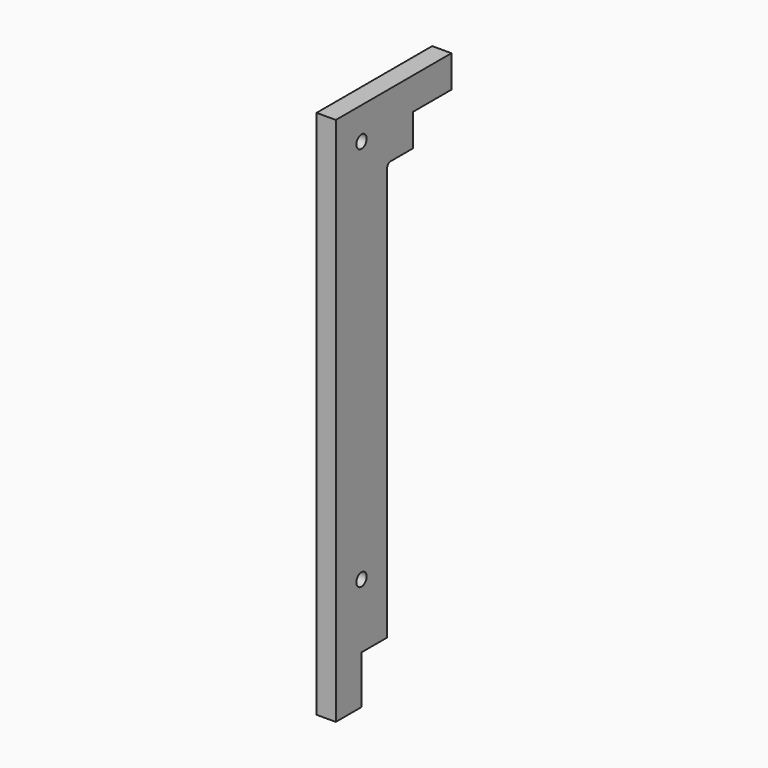
from build123d import *

# Parameters (mm, degrees)
F0_R     = 2
F1_DEPTH = 6


with BuildPart() as f1:
    # F0 (on Right) → F1 (new body)
    with BuildSketch(Plane.YZ):
        with BuildLine():
            Line((-158.73, 250), (-150, 250))
            Line((-150, 250), (-150, 260))
            Line((-150, 260), (-135, 260))
            Line((-135, 260), (-135, 270))
            Line((-135, 270), (-180, 270))
            Line((-180, 270), (-180, 105))
            Line((-180, 105), (-170, 105))
            Line((-170, 105), (-170, 120))
            Line((-170, 120), (-160, 120))
            Line((-160, 120), (-160, 248.73))
            ThreePointArc((-160, 248.73), (-159.628026, 249.628026), (-158.73, 250))
        make_face()
        with Locations((-170, 140)):
            Circle(F0_R, mode=Mode.SUBTRACT)
        with Locations((-170, 260)):
            Circle(F0_R, mode=Mode.SUBTRACT)
    extrude(amount=F1_DEPTH)


solid = f1.part
